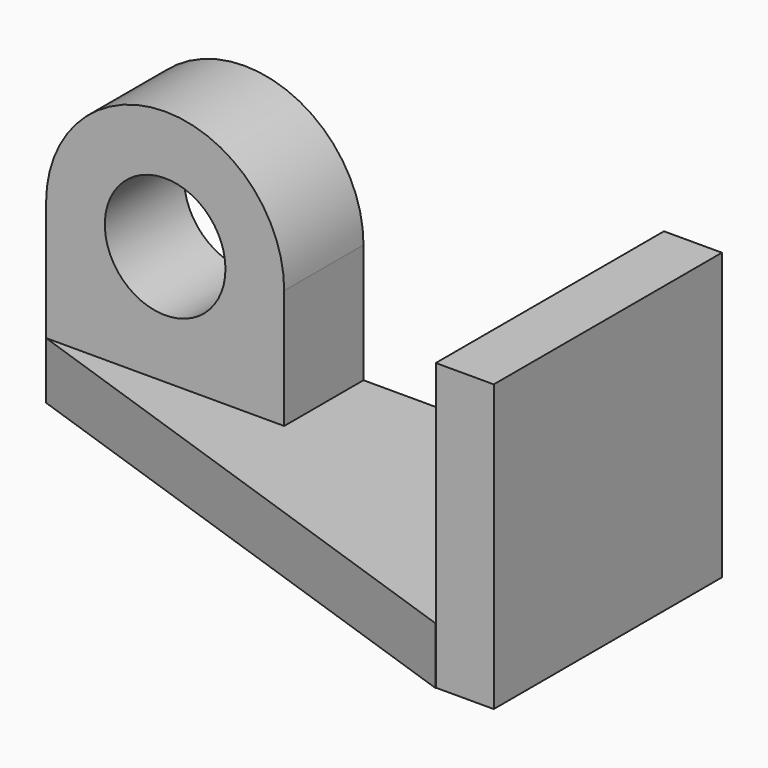
from build123d import *

# Parameters (mm, degrees)
F0_W      = 113.0752004683
F0_H      = 11.9665954262
F1_DEPTH  = 60
F3_DEPTH  = 12
F5_W      = 12.1646374464
F5_H      = 59.8628073931
F6_DEPTH  = 60
F4_W      = 49.9786976725
F4_H      = 20.8079274744
F7_DEPTH  = 50
F9_DEPTH  = 21
F10_R     = 12.6598002667
F11_DEPTH = 21


with BuildPart() as f1:
    # F0 (on Front) → F1 (new body)
    with BuildSketch(Plane.XZ):
        with Locations((-12.968538329, 5.9832977131)):
            Rectangle(F0_W, F0_H)
    extrude(amount=F1_DEPTH)

    # F2 (on face) → F3 (cut)
    with BuildSketch(Plane.XY.offset(11.9665954262)):
        Polygon((43.5690619051, -60), (-69.5061385632, -20.8079274744), (-69.5061385632, -60), align=None)
    extrude(amount=-F3_DEPTH, mode=Mode.SUBTRACT)

    # F5 (on Top) → F6 (join)
    with BuildSketch(Plane.XY):
        with Locations((49.6189072728, -29.9314036965)):
            Rectangle(F5_W, F5_H)
    extrude(amount=F6_DEPTH)

    # F4 (on face) → F7 (join)
    with BuildSketch(Plane.XY.offset(11.9665954262)):
        with Locations((-44.5167897269, -10.4039637372)):
            Rectangle(F4_W, F4_H)
    extrude(amount=F7_DEPTH)

    # F8 (on face) → F9 (cut)
    with BuildSketch(Plane.XZ.offset(20.8079274744)):
        with BuildLine():
            ThreePointArc((-69.5061385632, 36.9665954262), (-44.5167897269, 61.9559442624), (-19.5274408907, 36.9665954262))
            Line((-19.5274408907, 36.9665954262), (-19.5274408907, 61.9665954262))
            Line((-19.5274408907, 61.9665954262), (-69.5061385632, 61.9665954262))
            Line((-69.5061385632, 61.9665954262), (-69.5061385632, 36.9665954262))
        make_face()
    extrude(amount=-F9_DEPTH, mode=Mode.SUBTRACT)

    # F10 (on face) → F11 (cut)
    with BuildSketch(Plane.XZ.offset(20.8079274744)):
        with Locations((-44.5167897269, 36.9665954262)):
            Circle(F10_R)
    extrude(amount=-F11_DEPTH, mode=Mode.SUBTRACT)


solid = f1.part
